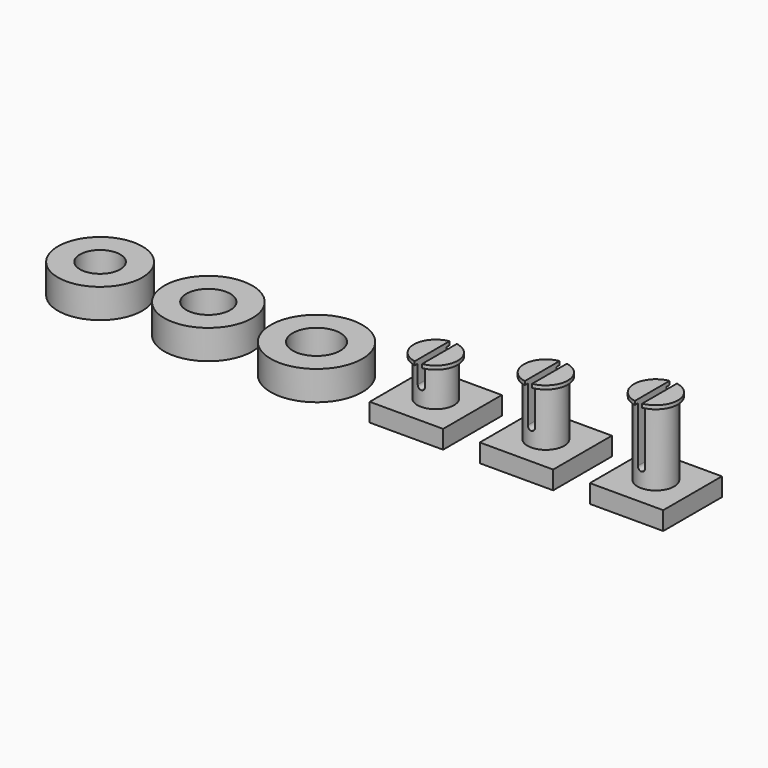
from build123d import *

# Parameters (mm, degrees)
F5_DEPTH      = 25
F5_DEPTH_BACK = 25
F6_W          = 3
F6_H          = 4
F10_W         = 10
F10_H         = 10
F11_DEPTH     = 2.5


with BuildPart() as f1:
    # F0 (on Front) → F1 (revolve)
    with BuildSketch(Plane.XZ):
        Polygon((3, 8), (0, 8), (0, 0), (5, 0), (5, 2.5), (2.5, 2.5), (2.5, 7.5), (3, 7.5), align=None)
    revolve(axis=Axis((0, 0, 8.1081883982), (0, 0, 1)))


with BuildPart() as f2:
    # F0 (on Front) → F2 (revolve)
    with BuildSketch(Plane.XZ):
        Polygon((18, 10.5), (15, 10.5), (15, 0), (20, 0), (20, 2.5), (17.5, 2.5), (17.5, 10), (18, 10), align=None)
    revolve(axis=Axis((15, 0, 7.5201606378), (0, 0, 1)))


with BuildPart() as f3:
    # F0 (on Front) → F3 (revolve)
    with BuildSketch(Plane.XZ):
        Polygon((33, 13), (30, 13), (30, 0), (35, 0), (35, 2.5), (32.5, 2.5), (32.5, 12.5), (33, 12.5), align=None)
    revolve(axis=Axis((30, 0, 13.954574092), (0, 0, 1)))


with BuildPart() as f5_tool:
    # F4 (on Front) → F5 (new body, two sides)
    with BuildSketch(Plane.XZ) as f5_sk:
        with BuildLine():
            Line((0.5, 8), (0, 8))
            Line((0, 8), (-0.5, 8))
            Line((-0.5, 8), (-0.5, 5))
            ThreePointArc((-0.5, 5), (-0.3535533906, 4.6464466094), (0, 4.5))
            ThreePointArc((0, 4.5), (0.3535533906, 4.6464466094), (0.5, 5))
            Line((0.5, 5), (0.5, 8))
        make_face()
        with BuildLine():
            Line((15.5, 10.5), (15, 10.5))
            Line((15, 10.5), (14.5, 10.5))
            Line((14.5, 10.5), (14.5, 5))
            ThreePointArc((14.5, 5), (14.6464466094, 4.6464466094), (15, 4.5))
            ThreePointArc((15, 4.5), (15.3535533906, 4.6464466094), (15.5, 5))
            Line((15.5, 5), (15.5, 10.5))
        make_face()
        with BuildLine():
            Line((30.5, 13), (30, 13))
            Line((30, 13), (29.5, 13))
            Line((29.5, 13), (29.5, 5))
            ThreePointArc((29.5, 5), (29.6464466094, 4.6464466094), (30, 4.5))
            ThreePointArc((30, 4.5), (30.3535533906, 4.6464466094), (30.5, 5))
            Line((30.5, 5), (30.5, 13))
        make_face()
    extrude(amount=-F5_DEPTH)
    extrude(f5_sk.sketch, amount=F5_DEPTH_BACK)


with BuildPart() as f1_1:
    add(f1.part)

    # F5: cut by f5_tool
    add(f5_tool.part, mode=Mode.SUBTRACT)

    # F10 (on face) → F11 (join, through all)
    with BuildSketch(Plane(origin=(0, 0, 0), x_dir=(1, 0, 0), z_dir=(0, 0, -1))):
        Rectangle(F10_W, F10_H)
    extrude(amount=-F11_DEPTH)


with BuildPart() as f2_1:
    add(f2.part)

    # F5: cut by f5_tool
    add(f5_tool.part, mode=Mode.SUBTRACT)

    # F10 (on face) → F11, piece 2 (join, through all)
    with BuildSketch(Plane(origin=(0, 0, 0), x_dir=(1, 0, 0), z_dir=(0, 0, -1))):
        with Locations((15, 0)):
            Rectangle(F10_W, F10_H)
    extrude(amount=-F11_DEPTH)


with BuildPart() as f3_1:
    add(f3.part)

    # F5: cut by f5_tool
    add(f5_tool.part, mode=Mode.SUBTRACT)

    # F10 (on face) → F11, piece 3 (join, through all)
    with BuildSketch(Plane(origin=(0, 0, 0), x_dir=(1, 0, 0), z_dir=(0, 0, -1))):
        with Locations((30, 0)):
            Rectangle(F10_W, F10_H)
    extrude(amount=-F11_DEPTH)


with BuildPart() as f7:
    # F6 (on Front) → F7 (revolve)
    with BuildSketch(Plane.XZ):
        with Locations((-11.5, 2)):
            Rectangle(F6_W, F6_H)
    revolve(axis=Axis((-16.25, 0, 6.1969419535), (0, 0, -1)))


with BuildPart() as f8:
    # F6 (on Front) → F8 (revolve)
    with BuildSketch(Plane.XZ):
        with Locations((-26.5, 2)):
            Rectangle(F6_W, F6_H)
    revolve(axis=Axis((-31, 0, 5.8758527754), (0, 0, -1)))


with BuildPart() as f9:
    # F6 (on Front) → F9 (revolve)
    with BuildSketch(Plane.XZ):
        with Locations((-41.5, 2)):
            Rectangle(F6_W, F6_H)
    revolve(axis=Axis((-45.75, 0, 7.1673819649), (0, 0, -1)))


solid = Compound([f1_1.part, f2_1.part, f3_1.part, f7.part, f8.part, f9.part])
